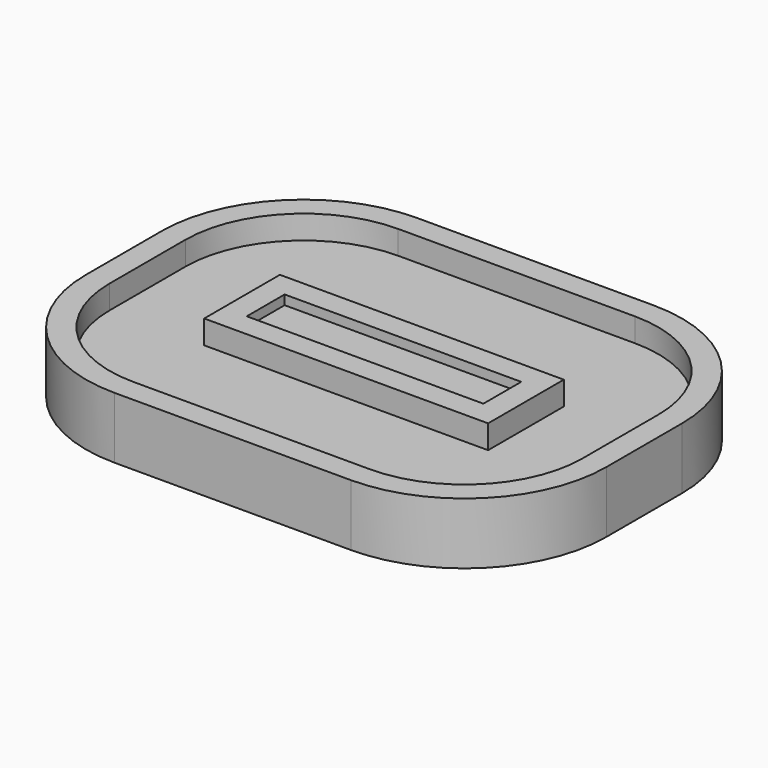
from build123d import *

# Parameters (mm, degrees)
F0_W     = 12.7
F0_H     = 2.54
F1_DEPTH = 3.302
F2_W     = 15.24
F2_H     = 5.08
F3_DEPTH = 1.27
F2_W_2   = 12.7
F2_H_2   = 2.54
F4_DEPTH = 0.508
F5_DEPTH = 0.508


with BuildPart() as f1:
    # F0 (on Top) → F1 (new body)
    with BuildSketch(Plane.XY):
        with BuildLine():
            Line((-6.35, -10.16), (6.35, -10.16))
            ThreePointArc((6.35, -10.16), (11.738154, -7.928154), (13.97, -2.54))
            Line((13.97, -2.54), (13.97, 2.54))
            ThreePointArc((13.97, 2.54), (11.738154, 7.928154), (6.35, 10.16))
            Line((6.35, 10.16), (-6.35, 10.16))
            ThreePointArc((-6.35, 10.16), (-11.738154, 7.928154), (-13.97, 2.54))
            Line((-13.97, 2.54), (-13.97, -2.54))
            ThreePointArc((-13.97, -2.54), (-11.738154, -7.928154), (-6.35, -10.16))
        make_face()
        Rectangle(F0_W, F0_H, mode=Mode.SUBTRACT)
        Rectangle(F0_W, F0_H)
    extrude(amount=F1_DEPTH)

    # F2 (on face) → F3 (cut)
    with BuildSketch(Plane.XY.offset(3.302)):
        with BuildLine():
            Line((-6.35, -8.89), (6.35, -8.89))
            ThreePointArc((6.35, -8.89), (10.840128, -7.030128), (12.7, -2.54))
            Line((12.7, -2.54), (12.7, 2.54))
            ThreePointArc((12.7, 2.54), (10.840128, 7.030128), (6.35, 8.89))
            Line((6.35, 8.89), (-6.35, 8.89))
            ThreePointArc((-6.35, 8.89), (-10.840128, 7.030128), (-12.7, 2.54))
            Line((-12.7, 2.54), (-12.7, -2.54))
            ThreePointArc((-12.7, -2.54), (-10.840128, -7.030128), (-6.35, -8.89))
        make_face()
        Rectangle(F2_W, F2_H, mode=Mode.SUBTRACT)
    extrude(amount=-F3_DEPTH, mode=Mode.SUBTRACT)

    # F2 (on face) → F4 (cut)
    with BuildSketch(Plane.XY.offset(3.302)):
        Rectangle(F2_W_2, F2_H_2)
    extrude(amount=-F4_DEPTH, mode=Mode.SUBTRACT)

    # F0 (on Top) → F5 (cut)
    with BuildSketch(Plane.XY):
        Rectangle(F0_W, F0_H)
    extrude(amount=F5_DEPTH, mode=Mode.SUBTRACT)


solid = f1.part
